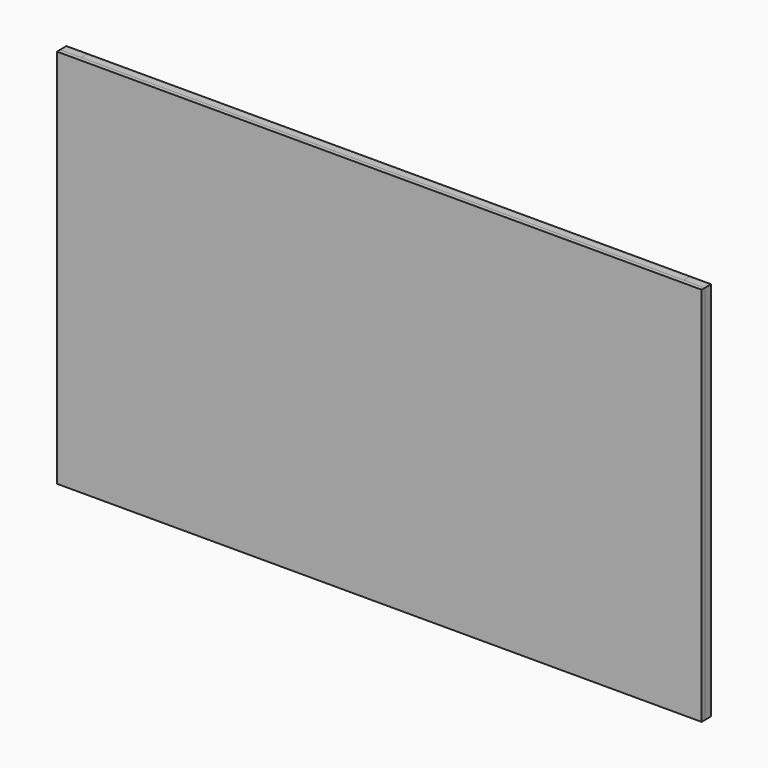
from build123d import *

# Parameters (mm, degrees)
F0_W     = 1549.4
F0_H     = 914.4
F1_DEPTH = 4.7625
F2_W     = 50.8
F2_H     = 914.4
F3_DEPTH = 19.05
F4_W     = 1447.8
F4_H     = 50.8
F5_DEPTH = 19.05


with BuildPart() as f1:
    # F0 (on Front) → F1 (new body, symmetric)
    with BuildSketch(Plane.XZ):
        Rectangle(F0_W, F0_H)
    extrude(amount=F1_DEPTH, both=True)


with BuildPart() as f3:
    # F2 (on face) → F3 (new body)
    with BuildSketch(Plane(origin=(0, 4.7625, 0), x_dir=(-1, 0, 0), z_dir=(0, 1, 0))):
        with Locations((-749.3, 0)):
            Rectangle(F2_W, F2_H)
        with Locations((749.3, 0)):
            Rectangle(F2_W, F2_H)
    extrude(amount=F3_DEPTH)


with BuildPart() as f5:
    # F4 (on face) → F5 (new body)
    with BuildSketch(Plane(origin=(0, 4.7625, 0), x_dir=(-1, 0, 0), z_dir=(0, 1, 0))):
        with Locations((0, 431.8)):
            Rectangle(F4_W, F4_H)
        with Locations((0, -431.8)):
            Rectangle(F4_W, F4_H)
    extrude(amount=F5_DEPTH)


solid = Compound([f1.part, f3.part, f5.part])
